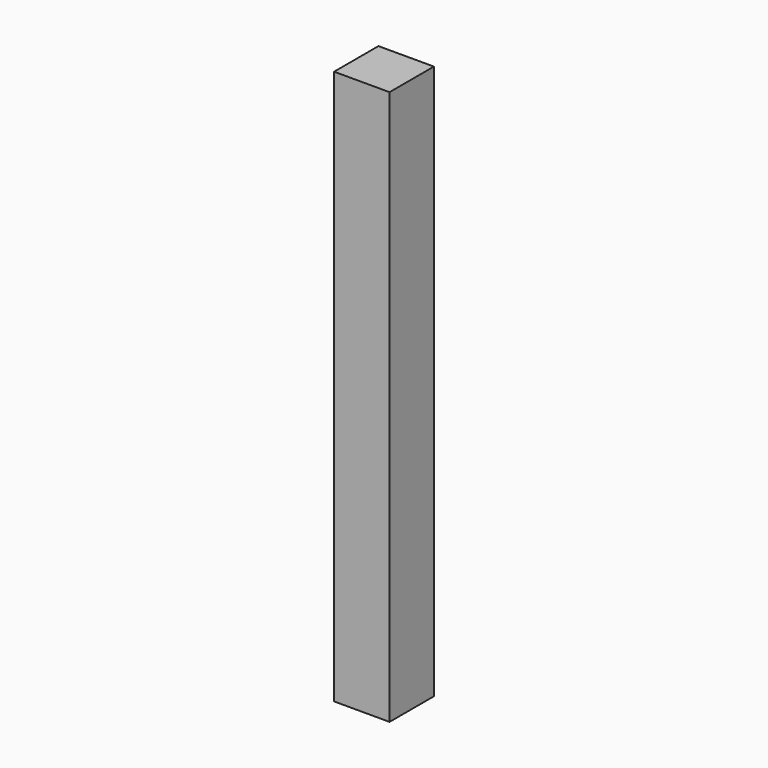
from build123d import *

# Parameters (mm, degrees)
F0_W     = 60
F0_H     = 60
F1_DEPTH = 600
F2_SCALE = 0.2


with BuildPart() as f1:
    # F0 (on Top) → F1 (new body)
    with BuildSketch(Plane.XY):
        with Locations((30, -30)):
            Rectangle(F0_W, F0_H)
    extrude(amount=-F1_DEPTH)


with BuildPart() as f1_1:
    # F2: moved
    add(f1.part.scale(F2_SCALE))


solid = f1_1.part
